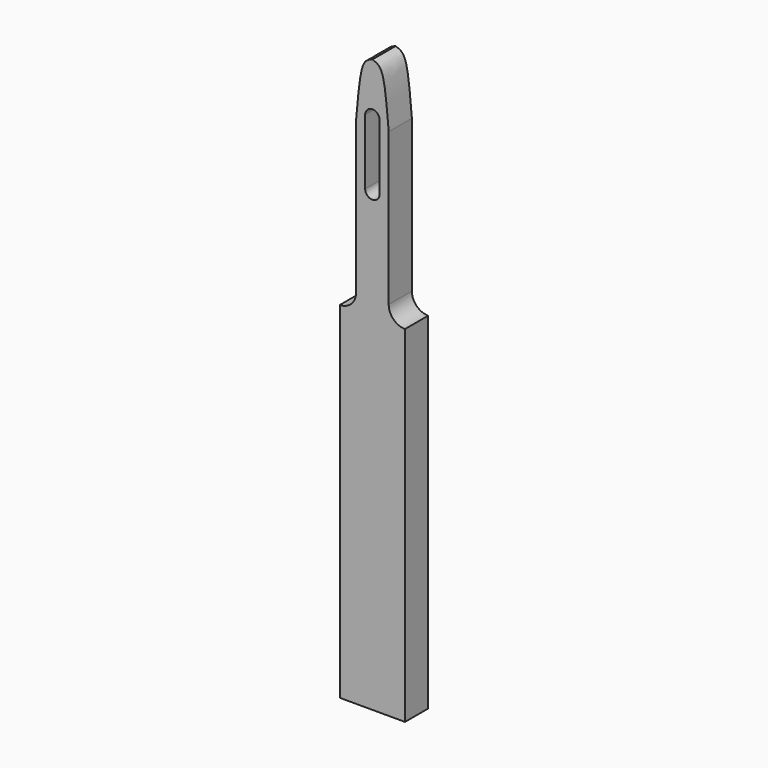
from build123d import *

# Parameters (mm, degrees)
F1_DEPTH = 4
F3_DEPTH = 4.0010001


with BuildPart() as f1:
    # F0 (on Front) → F1 (new body)
    with BuildSketch(Plane.XZ):
        with BuildLine():
            Line((-2.25, 21.0164487362), (-2.25, 0))
            Line((-2.25, 0), (2.25, 0))
            Line((2.25, 0), (2.25, 21.0164487362))
            add(Edge.make_bspline(
                [(0, 29.0521112765), (0.3695458095, 28.9210731345), (1.3268018727, 28.5816373926), (1.8741963924, 25.3153750937), (2.1164189838, 22.5445206862), (2.25, 21.0164487362)],
                knots=[0, 0, 0, 0, 0.219983541, 0.5698361963, 1, 1, 1, 1], degree=3))
            add(Edge.make_bspline(
                [(0, 29.0521112765), (-0.3695458095, 28.9210731345), (-1.3268018727, 28.5816373926), (-1.8741963924, 25.3153750937), (-2.1164189838, 22.5445206862), (-2.25, 21.0164487362)],
                knots=[0, 0, 0, 0, 0.219983541, 0.5698361963, 1, 1, 1, 1], degree=3))
        make_face()
        with BuildLine():
            Line((-1, 13), (-1, 22))
            ThreePointArc((-1, 22), (0, 23), (1, 22))
            Line((1, 22), (1, 13))
            ThreePointArc((1, 13), (0, 12), (-1, 13))
        make_face(mode=Mode.SUBTRACT)
        Polygon((-2.25, 0), (-4.5, 0), (-4.5, -50), (4.5, -50), (4.5, 0), (2.25, 0), align=None)
    extrude(amount=F1_DEPTH)

    # F2 (on face) → F3 (cut, through all)
    with BuildSketch(Plane.XZ.offset(4)):
        with BuildLine():
            Line((4.5, 0), (2.25, 0))
            ThreePointArc((2.25, 0), (2.9090097423, -1.5909902577), (4.5, -2.25))
            Line((4.5, -2.25), (4.5, 0))
        make_face()
        with BuildLine():
            Line((-4.5, 0), (-4.5, -2.25))
            ThreePointArc((-4.5, -2.25), (-2.9090097423, -1.5909902577), (-2.25, 0))
            Line((-2.25, 0), (-4.5, 0))
        make_face()
    extrude(amount=-F3_DEPTH, mode=Mode.SUBTRACT)


solid = f1.part
